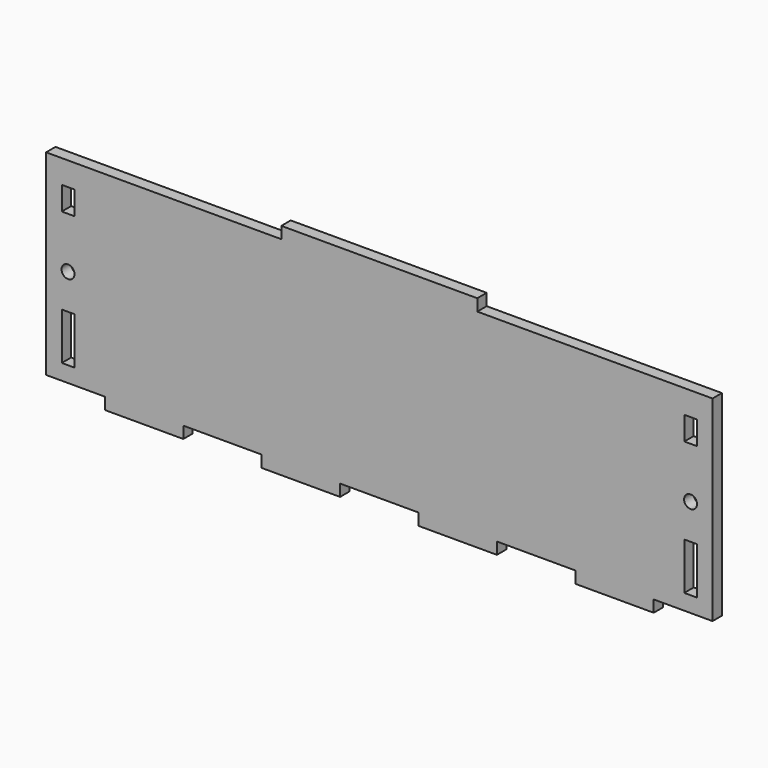
from build123d import *

# Parameters (mm, degrees)
F0_W     = 3.2
F0_H     = 12
F0_R     = 1.65
F0_H_2   = 6
F0_W_2   = 50
F0_H_3   = 3
F0_W_3   = 20
F1_DEPTH = 3


with BuildPart() as f1:
    # F0 (on Front) → F1 (new body)
    with BuildSketch(Plane.XZ):
        Polygon((70, -25), (85, -25), (85, 25), (25, 25), (-25, 25), (-85, 25), (-85, -25), (-70, -25), (-50, -25), (-30, -25), (-10, -25), (10, -25), (30, -25), (50, -25), align=None)
        with Locations((-79.4, -15)):
            Rectangle(F0_W, F0_H, mode=Mode.SUBTRACT)
        with Locations((79.4, -15)):
            Rectangle(F0_W, F0_H, mode=Mode.SUBTRACT)
        with Locations((-79.4, 0)):
            Circle(F0_R, mode=Mode.SUBTRACT)
        with Locations((-79.4, 16)):
            Rectangle(F0_W, F0_H_2, mode=Mode.SUBTRACT)
        with Locations((79.4, 0)):
            Circle(F0_R, mode=Mode.SUBTRACT)
        with Locations((79.4, 16)):
            Rectangle(F0_W, F0_H_2, mode=Mode.SUBTRACT)
        with Locations((0, 26.5)):
            Rectangle(F0_W_2, F0_H_3)
        with Locations((-60, -26.5)):
            Rectangle(F0_W_3, F0_H_3)
        with Locations((-20, -26.5)):
            Rectangle(F0_W_3, F0_H_3)
        with Locations((20, -26.5)):
            Rectangle(F0_W_3, F0_H_3)
        with Locations((60, -26.5)):
            Rectangle(F0_W_3, F0_H_3)
    extrude(amount=F1_DEPTH)


solid = f1.part
